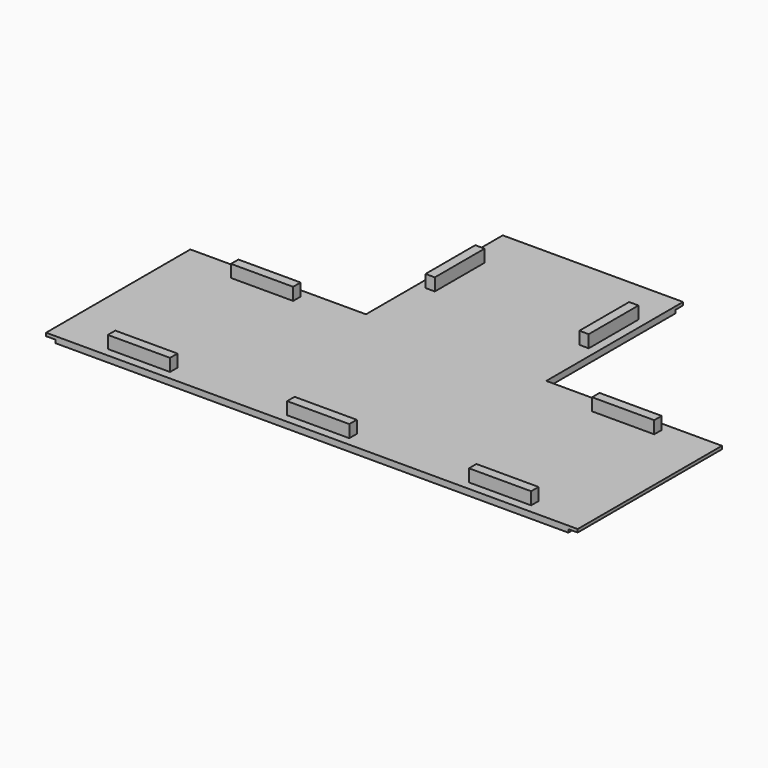
from build123d import *

# Parameters (mm, degrees)
BOX010_W     = 3
BOX010_H     = 58
BOX010_DEPTH = 1
BOX009_W     = 3
BOX009_H     = 58
BOX009_DEPTH = 1
BOX008_W     = 20
BOX008_H     = 3
BOX008_DEPTH = 6
BOX007_W     = 20
BOX007_H     = 3
BOX007_DEPTH = 6
BOX006_W     = 20
BOX006_H     = 3
BOX006_DEPTH = 6
BOX005_W     = 20
BOX005_H     = 3
BOX005_DEPTH = 6
BOX004_W     = 20
BOX004_H     = 3
BOX004_DEPTH = 6
BOX003_W     = 20
BOX003_H     = 3
BOX003_DEPTH = 6
BOX002_W     = 20
BOX002_H     = 3
BOX002_DEPTH = 6
BOX001_W     = 110
BOX001_H     = 58
BOX001_DEPTH = 2
BOX_W        = 165
BOX_H        = 58
BOX_DEPTH    = 2
BOX011_W     = 3
BOX011_H     = 58
BOX011_DEPTH = 1


with BuildPart() as cube010:
    # Box010 → Box010 (new body)
    with BuildSketch(Plane(origin=(169, 0, 1), x_dir=(1, 0, 0), z_dir=(0, 0, 1))):
        with Locations((1.5, 29)):
            Rectangle(BOX010_W, BOX010_H)
    extrude(amount=BOX010_DEPTH)


with BuildPart() as cube009:
    # Box009 → Box009 (new body)
    with BuildSketch(Plane(origin=(1, 0, 1), x_dir=(1, 0, 0), z_dir=(0, 0, 1))):
        with Locations((1.5, 29)):
            Rectangle(BOX009_W, BOX009_H)
    extrude(amount=BOX009_DEPTH)


with BuildPart() as cube008:
    # Box008 → Box008 (new body)
    with BuildSketch(Plane(origin=(112.75, 78.5, 0), x_dir=(0, 1, 0), z_dir=(0, 0, 1))):
        with Locations((10, 1.5)):
            Rectangle(BOX008_W, BOX008_H)
    extrude(amount=BOX008_DEPTH)


with BuildPart() as cube007:
    # Box007 → Box007 (new body)
    with BuildSketch(Plane(origin=(63.25, 78.5, 0), x_dir=(0, 1, 0), z_dir=(0, 0, 1))):
        with Locations((10, 1.5)):
            Rectangle(BOX007_W, BOX007_H)
    extrude(amount=BOX007_DEPTH)


with BuildPart() as cube006:
    # Box006 → Box006 (new body)
    with BuildSketch(Plane(origin=(134.83, 52.25, 0), x_dir=(1, 0, 0), z_dir=(0, 0, 1))):
        with Locations((10, 1.5)):
            Rectangle(BOX006_W, BOX006_H)
    extrude(amount=BOX006_DEPTH)


with BuildPart() as cube005:
    # Box005 → Box005 (new body)
    with BuildSketch(Plane(origin=(18.67, 52.25, 0), x_dir=(1, 0, 0), z_dir=(0, 0, 1))):
        with Locations((10, 1.5)):
            Rectangle(BOX005_W, BOX005_H)
    extrude(amount=BOX005_DEPTH)


with BuildPart() as cube004:
    # Box004 → Box004 (new body)
    with BuildSketch(Plane(origin=(134.83, 2.75, 0), x_dir=(1, 0, 0), z_dir=(0, 0, 1))):
        with Locations((10, 1.5)):
            Rectangle(BOX004_W, BOX004_H)
    extrude(amount=BOX004_DEPTH)


with BuildPart() as cube003:
    # Box003 → Box003 (new body)
    with BuildSketch(Plane(origin=(76.34, 2.75, 0), x_dir=(1, 0, 0), z_dir=(0, 0, 1))):
        with Locations((10, 1.5)):
            Rectangle(BOX003_W, BOX003_H)
    extrude(amount=BOX003_DEPTH)


with BuildPart() as cube002:
    # Box002 → Box002 (new body)
    with BuildSketch(Plane(origin=(18.67, 2.75, 0), x_dir=(1, 0, 0), z_dir=(0, 0, 1))):
        with Locations((10, 1.5)):
            Rectangle(BOX002_W, BOX002_H)
    extrude(amount=BOX002_DEPTH)


with BuildPart() as cube001:
    # Box001 → Box001 (new body)
    with BuildSketch(Plane(origin=(115.5, 0, 0), x_dir=(0, 1, 0), z_dir=(0, 0, 1))):
        with Locations((55, 29)):
            Rectangle(BOX001_W, BOX001_H)
    extrude(amount=BOX001_DEPTH)


with BuildPart() as cube:
    # Box → Box (new body)
    with BuildSketch(Plane(origin=(4, 0, 0), x_dir=(1, 0, 0), z_dir=(0, 0, 1))):
        with Locations((82.5, 29)):
            Rectangle(BOX_W, BOX_H)
    extrude(amount=BOX_DEPTH)


with BuildPart() as fusion:
    # Box011 → Box011 (new body)
    with BuildSketch(Plane(origin=(115.5, 110, 1), x_dir=(0, 1, 0), z_dir=(0, 0, 1))):
        with Locations((1.5, 29)):
            Rectangle(BOX011_W, BOX011_H)
    extrude(amount=BOX011_DEPTH)

    # Fusion: union Cube010, Cube009, Cube008, Cube007, Cube006, Cube005, Cube004, Cube003, Cube002, Cube001, Cube
    add(cube010.part)
    add(cube009.part)
    add(cube008.part)
    add(cube007.part)
    add(cube006.part)
    add(cube005.part)
    add(cube004.part)
    add(cube003.part)
    add(cube002.part)
    add(cube001.part)
    add(cube.part)


solid = fusion.part
